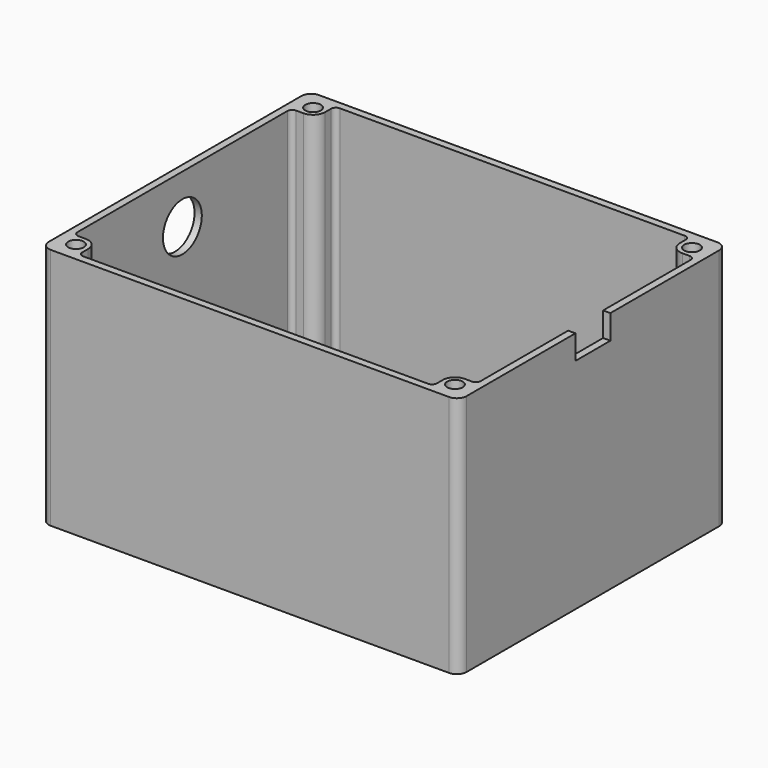
from build123d import *

# Parameters (mm, degrees)
SKETCH_W        = 86
SKETCH_H        = 69
PAD_DEPTH       = 50
SKETCH001_W     = 83
SKETCH001_H     = 66
POCKET_DEPTH    = 48.5
SKETCH002_W     = 68
SKETCH002_H     = 50
POCKET001_DEPTH = 5
SKETCH003_W     = 5
SKETCH003_H     = 5
SKETCH003_R     = 1.6
PAD001_DEPTH    = 4
FILLET_R        = 2.25
FILLET001_R     = 2.25
FILLET002_R     = 1.5
SKETCH004_W     = 5
SKETCH004_H     = 5
SKETCH004_R     = 1.6
PAD002_DEPTH    = 48.5
FILLET003_R     = 2.5
FILLET004_R     = 1
FILLET005_R     = 2
CHAMFER_SIZE    = 1.45
SKETCH006_R     = 5
POCKET002_DEPTH = 5
SKETCH007_W     = 9
SKETCH007_H     = 5
POCKET003_DEPTH = 5


with BuildPart() as part:
    # Sketch → Pad (new body)
    with BuildSketch(Plane.XY):
        with Locations((-0.285933, 2.677615)):
            Rectangle(SKETCH_W, SKETCH_H)
    extrude(amount=PAD_DEPTH)

    # Sketch001 (on Face6 of Pad) → Pocket (cut)
    with BuildSketch(Plane.XY.offset(50)):
        with Locations((-0.285933, 2.677615)):
            Rectangle(SKETCH001_W, SKETCH001_H)
    extrude(amount=-POCKET_DEPTH, mode=Mode.SUBTRACT)

    # Sketch002 (on Face11 of Pocket) → Pocket001 (cut)
    with BuildSketch(Plane.XY.offset(1.5)):
        with Locations((-0.285933, 2.677615)):
            Rectangle(SKETCH002_W, SKETCH002_H)
    extrude(amount=-POCKET001_DEPTH, mode=Mode.SUBTRACT)

    # Sketch003 (on Face15 of Pocket001) → Pad001 (join)
    with BuildSketch(Plane.XY.offset(1.5)):
        with Locations((-39.285933, -19.822385)):
            Rectangle(SKETCH003_W, SKETCH003_H)
        with Locations((-39.285933, -19.822385)):
            Circle(SKETCH003_R, mode=Mode.SUBTRACT)
        with Locations((38.714067, 25.177615)):
            Rectangle(SKETCH003_W, SKETCH003_H)
        with Locations((38.714067, 25.177615)):
            Circle(SKETCH003_R, mode=Mode.SUBTRACT)
        with Locations((38.714067, -19.822385)):
            Rectangle(SKETCH003_W, SKETCH003_H)
        with Locations((38.714054, -19.822398)):
            Circle(SKETCH003_R, mode=Mode.SUBTRACT)
        with Locations((-39.285933, 25.177615)):
            Rectangle(SKETCH003_W, SKETCH003_H)
        with Locations((-39.285933, 25.177615)):
            Circle(SKETCH003_R, mode=Mode.SUBTRACT)
    extrude(amount=PAD001_DEPTH)

    # Fillet
    fillet_edges = [part.edges().sort_by_distance(p)[0] for p in [
        (-36.785933, 27.677615, 3.5),
        (-36.785933, 22.677615, 3.5),
    ]]
    fillet(fillet_edges, radius=FILLET_R)

    # Fillet001
    fillet001_edges = [part.edges().sort_by_distance(p)[0] for p in [
        (-36.785933, -17.322385, 3.5),
        (-36.785933, -22.322385, 3.5),
        (36.214067, -17.322385, 3.5),
        (36.214067, -22.322385, 3.5),
        (36.214067, 27.677615, 3.5),
        (36.214067, 22.677615, 3.5),
    ]]
    fillet(fillet001_edges, radius=FILLET001_R)

    # Fillet002
    fillet002_edges = [part.edges().sort_by_distance(p)[0] for p in [
        (41.214067, 22.677615, 3.5),
        (41.214067, 27.677615, 3.5),
        (41.214067, -17.322385, 3.5),
        (41.214067, -22.322385, 3.5),
        (-41.785933, 22.677615, 3.5),
        (-41.785933, 27.677615, 3.5),
        (-41.785933, -17.322385, 3.5),
        (-41.785933, -22.322385, 3.5),
    ]]
    fillet(fillet002_edges, radius=FILLET002_R)

    # Sketch004 (on Face1 of Fillet002) → Pad002 (join)
    with BuildSketch(Plane.XY.offset(1.5)):
        with Locations((-39.285933, -27.822385)):
            Rectangle(SKETCH004_W, SKETCH004_H)
        with Locations((-39.285933, -27.822385)):
            Circle(SKETCH004_R, mode=Mode.SUBTRACT)
        with Locations((-39.285933, 33.177615)):
            Rectangle(SKETCH004_W, SKETCH004_H)
        with Locations((-39.285933, 33.177615)):
            Circle(SKETCH004_R, mode=Mode.SUBTRACT)
        with Locations((38.714067, 33.177615)):
            Rectangle(SKETCH004_W, SKETCH004_H)
        with Locations((38.714067, 33.177615)):
            Circle(SKETCH004_R, mode=Mode.SUBTRACT)
        with Locations((38.714067, -27.822385)):
            Rectangle(SKETCH004_W, SKETCH004_H)
        with Locations((38.714067, -27.822385)):
            Circle(SKETCH004_R, mode=Mode.SUBTRACT)
    extrude(amount=PAD002_DEPTH)

    # Fillet003
    fillet003_edges = [part.edges().sort_by_distance(p)[0] for p in [
        (-36.785933, 30.677615, 25.75),
        (36.214067, 30.677615, 25.75),
        (-36.785933, -25.322385, 25.75),
        (36.214067, -25.322385, 25.75),
    ]]
    fillet(fillet003_edges, radius=FILLET003_R)

    # Fillet004
    fillet004_edges = [part.edges().sort_by_distance(p)[0] for p in [
        (41.214067, -25.322385, 25.75),
        (36.214067, -30.322385, 25.75),
        (41.214067, 30.677615, 25.75),
        (36.214067, 35.677615, 25.75),
        (-41.785933, 30.677615, 25.75),
        (-36.785933, 35.677615, 25.75),
        (-36.785933, -30.322385, 25.75),
        (-41.785933, -25.322385, 25.75),
    ]]
    fillet(fillet004_edges, radius=FILLET004_R)

    # Fillet005
    fillet005_edges = [part.edges().sort_by_distance(p)[0] for p in [
        (-43.285933, 37.177615, 25),
        (42.714067, 37.177615, 25),
        (42.714067, -31.822385, 25),
        (-43.285933, -31.822385, 25),
    ]]
    fillet(fillet005_edges, radius=FILLET005_R)

    # Chamfer
    chamfer_edges = [part.edges().sort_by_distance(p)[0] for p in [
        (-34.285933, 2.677615, 1.5),
        (-0.285933, 27.677615, 1.5),
        (-0.285933, -22.322385, 1.5),
        (33.714067, 2.677615, 1.5),
    ]]
    chamfer(chamfer_edges, length=CHAMFER_SIZE)

    # Sketch006 (on Face13 of Fillet005) → Pocket002 (cut)
    with BuildSketch(Plane.YZ.offset(-41.785933)):
        with Locations((2.677615, 40)):
            Circle(SKETCH006_R)
    extrude(amount=-POCKET002_DEPTH, mode=Mode.SUBTRACT)

    # Sketch007 (on Face25 of Pocket002) → Pocket003 (cut)
    with BuildSketch(Plane(origin=(41.214067, 0, 0), x_dir=(0, -1, 0), z_dir=(-1, 0, 0))):
        with Locations((-2.677615, 47.5)):
            Rectangle(SKETCH007_W, SKETCH007_H)
    extrude(amount=-POCKET003_DEPTH, mode=Mode.SUBTRACT)


solid = part.part
